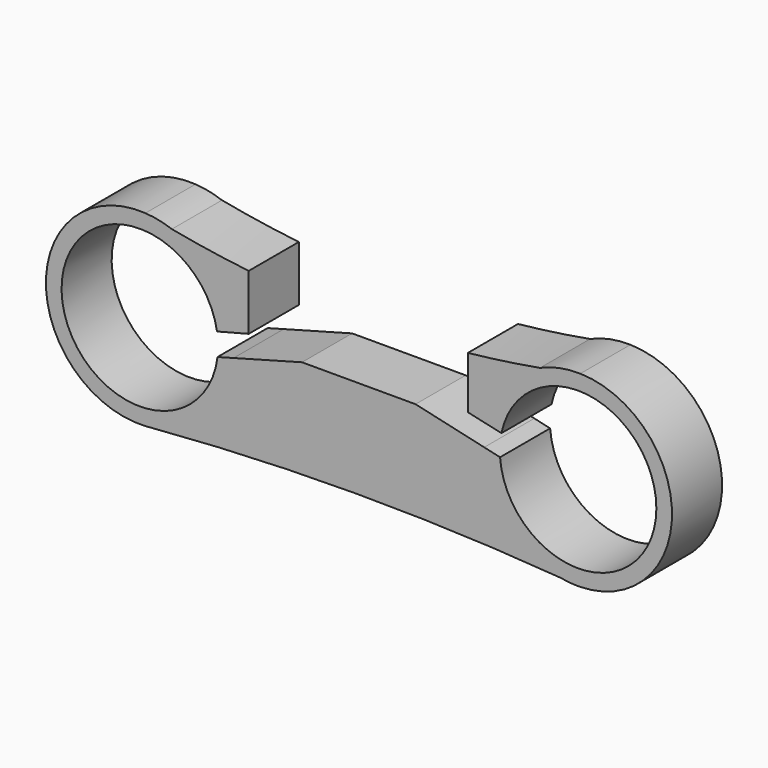
from build123d import *

# Parameters (mm, degrees)
F1_DEPTH = 25.4


with BuildPart() as f1:
    # F0 (on Front) → F1 (new body)
    with BuildSketch(Plane.XZ):
        with BuildLine():
            ThreePointArc((-77.954433, 36.849992), (-83.324328, 37.92253), (-88.679372, 39.066919))
            ThreePointArc((-88.679372, 39.066919), (-129.049346, 1.034601), (-88.679372, -36.997717))
            ThreePointArc((-88.679372, -36.997717), (-87.773383, -36.921511), (-86.867329, -36.846095))
            ThreePointArc((-86.867329, -36.846095), (-63.305117, -25.183839), (-52.905742, -1.037637))
            Line((-52.905742, -1.037637), (-59.431807, -2.8004))
            ThreePointArc((-59.431807, -2.8004), (-122.691774, 0.341231), (-59.62933, 6.242203))
            Line((-59.62933, 6.242203), (-53.462953, 7.844913))
            ThreePointArc((-53.462953, 7.844913), (-61.838966, 25.614996), (-77.954433, 36.849992))
        make_face()
        with BuildLine():
            ThreePointArc((-77.954433, 36.849992), (-83.236831, 38.345821), (-88.679372, 39.066919))
            ThreePointArc((-88.679372, 39.066919), (-83.324328, 37.92253), (-77.954433, 36.849992))
        make_face()
        with BuildLine():
            ThreePointArc((-86.867329, -36.846095), (-87.773383, -36.921511), (-88.679372, -36.997717))
            ThreePointArc((-88.679372, -36.997717), (-87.772445, -36.932718), (-86.867329, -36.846095))
        make_face()
        with BuildLine():
            ThreePointArc((-46.762083, 32.077556), (-62.404336, 34.162613), (-77.954433, 36.849992))
            ThreePointArc((-77.954433, 36.849992), (-61.838966, 25.614996), (-53.462953, 7.844913))
            Line((-53.462953, 7.844913), (-46.762083, 9.586544))
            Line((-46.762083, 9.586544), (-46.762083, 32.077556))
        make_face()
        with BuildLine():
            ThreePointArc((-52.905742, -1.037637), (-63.305117, -25.183839), (-86.867329, -36.846095))
            ThreePointArc((-86.867329, -36.846095), (-3.539116, -33.292767), (79.806603, -36.408574))
            ThreePointArc((79.806603, -36.408574), (57.814967, -23.63398), (48.761331, 0.132676))
            Line((48.761331, 0.132676), (20.909883, 6.46305))
            Line((20.909883, 6.46305), (-25.136846, 6.46305))
            Line((-25.136846, 6.46305), (-52.905742, -1.037637))
        make_face()
        with BuildLine():
            ThreePointArc((87.74957, -37.054793), (83.778703, -36.724097), (79.806603, -36.408574))
            ThreePointArc((79.806603, -36.408574), (83.761144, -36.939929), (87.74957, -37.054793))
        make_face()
        with BuildLine():
            ThreePointArc((48.761331, 0.132676), (57.814967, -23.63398), (79.806603, -36.408574))
            ThreePointArc((79.806603, -36.408574), (83.778703, -36.724097), (87.74957, -37.054793))
            ThreePointArc((87.74957, -37.054793), (124.950654, 1.034601), (87.74957, 39.123995))
            ThreePointArc((87.74957, 39.123995), (79.575458, 37.401709), (71.367851, 35.846852))
            ThreePointArc((71.367851, 35.846852), (57.209182, 24.971876), (49.558952, 8.840943))
            Line((49.558952, 8.840943), (55.758314, 7.463354))
            ThreePointArc((55.758314, 7.463354), (118.534221, -1.018226), (55.188695, -1.328204))
            Line((55.188695, -1.328204), (48.761331, 0.132676))
        make_face()
        with BuildLine():
            ThreePointArc((71.367851, 35.846852), (79.575458, 37.401709), (87.74957, 39.123995))
            ThreePointArc((87.74957, 39.123995), (79.376876, 38.394374), (71.367851, 35.846852))
        make_face()
        with BuildLine():
            ThreePointArc((49.558952, 8.840943), (57.209182, 24.971876), (71.367851, 35.846852))
            ThreePointArc((71.367851, 35.846852), (56.790326, 33.510204), (42.137917, 31.701597))
            Line((42.137917, 31.701597), (42.137917, 10.490005))
            Line((42.137917, 10.490005), (49.558952, 8.840943))
        make_face()
    extrude(amount=F1_DEPTH)


solid = f1.part
